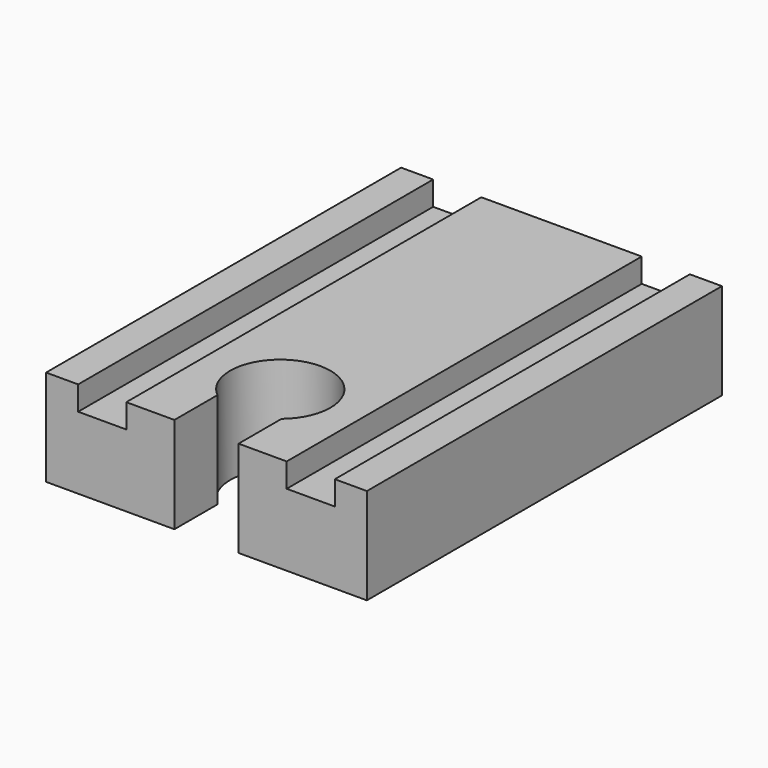
from build123d import *

# Parameters (mm, degrees)
F1_DEPTH = 12
F2_W     = 6
F2_H     = 55.3311501741
F3_DEPTH = 3


with BuildPart() as f1:
    # F0 (on Top) → F1 (new body)
    with BuildSketch(Plane.XY):
        with BuildLine():
            Line((0, 55.3311501741), (0, 0))
            Line((0, 0), (16, 0))
            Line((16, 0), (16, 6.6976568219))
            ThreePointArc((16, 6.6976568219), (20, 17.75), (24, 6.6976568219))
            Line((24, 6.6976568219), (24, 0))
            Line((24, 0), (40, 0))
            Line((40, 0), (40, 55.3311501741))
            Line((40, 55.3311501741), (22.5, 55.3311501741))
            Line((22.5, 55.3311501741), (17.5, 55.3311501741))
            Line((17.5, 55.3311501741), (0, 55.3311501741))
        make_face()
    extrude(amount=F1_DEPTH)

    # F2 (on face) → F3 (cut)
    with BuildSketch(Plane.XY.offset(12)):
        with Locations((7, 27.6655750871)):
            Rectangle(F2_W, F2_H)
        with Locations((33, 27.6655750871)):
            Rectangle(F2_W, F2_H)
    extrude(amount=-F3_DEPTH, mode=Mode.SUBTRACT)


solid = f1.part
